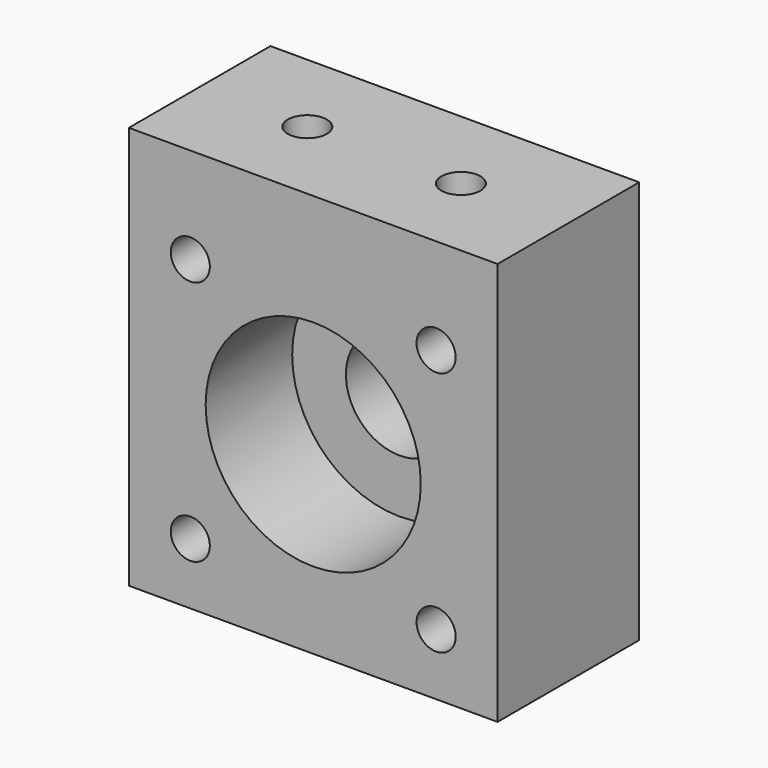
from build123d import *

# Parameters (mm, degrees)
F0_W     = 38.1
F0_H     = 38.1
F0_R     = 5.5626
F1_DEPTH = 18.288
F3_D     = 4.0386
F4_R     = 11.1125
F4_R_2   = 5.5626
F5_DEPTH = 11.176
F6_DEPTH = 3.556
F8_D     = 4.0386
F8_DEPTH = 11.811
F8_TIP   = 1.213317848


with BuildPart() as f1:
    # F0 (on Front) → F1 (new body)
    with BuildSketch(Plane.XZ):
        Rectangle(F0_W, F0_H)
        Circle(F0_R, mode=Mode.SUBTRACT)
    extrude(amount=F1_DEPTH)

    # F3 (through all)
    with Locations(Plane.XZ.offset(18.288)):
        with Locations((-12.7, -12.7), (-12.7, 12.7), (12.7, 12.7), (12.7, -12.7)):
            Hole(F3_D / 2)

    # F4 (on face) → F5 (cut)
    with BuildSketch(Plane.XZ.offset(18.288)):
        Circle(F4_R)
        Circle(F4_R_2, mode=Mode.SUBTRACT)
    extrude(amount=-F5_DEPTH, mode=Mode.SUBTRACT)

    # F6 (add): a face of the model
    f6_faces = [f1.faces().sort_by_distance(p)[0] for p in [
        (0, -9.144, 19.05),
    ]]
    extrude(f6_faces, amount=F6_DEPTH)

    # F8
    with Locations(Plane.XY.offset(22.606)):
        with Locations((-7.9248, -9.144), (7.9502, -9.144)):
            Hole(F8_D / 2, depth=F8_DEPTH)
            with Locations((0, 0, -(F8_DEPTH + F8_TIP / 2))):  # 118° drill point
                Cone(0, F8_D / 2, F8_TIP, mode=Mode.SUBTRACT)


solid = f1.part
